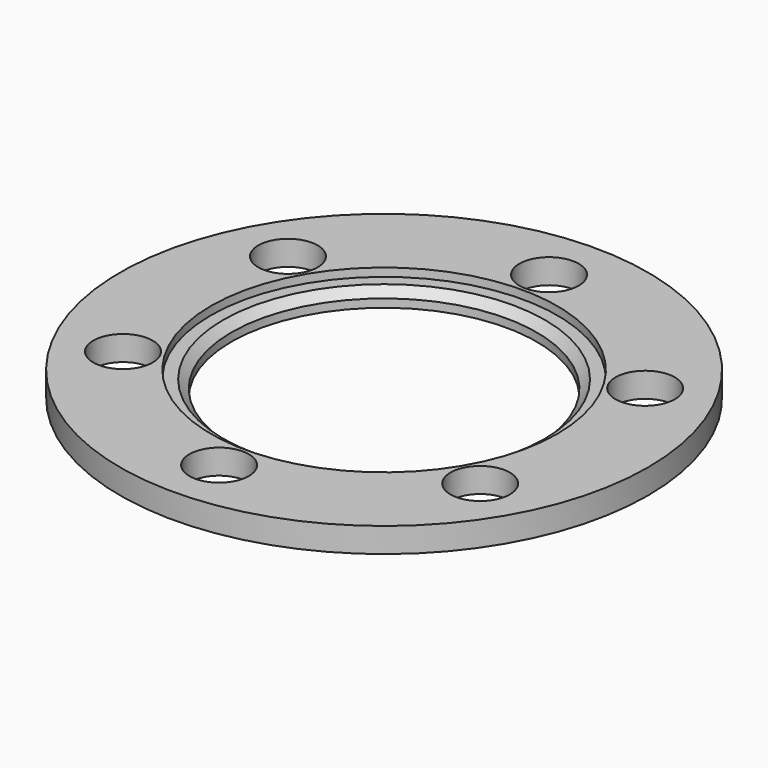
from build123d import *

# Parameters (mm, degrees)
F0_R     = 16
F0_R_2   = 1.8
F0_R_3   = 9.25
F1_DEPTH = 1.5
F2_R     = 10.5
F3_DEPTH = 0.5
F4_SIZE  = 0.5


with BuildPart() as f1:
    # F0 (on Top) → F1 (new body)
    with BuildSketch(Plane.XY):
        Circle(F0_R)
        with Locations((-10.825318, -6.25)):
            Circle(F0_R_2, mode=Mode.SUBTRACT)
        with Locations((0, -12.5)):
            Circle(F0_R_2, mode=Mode.SUBTRACT)
        with Locations((10.825318, -6.25)):
            Circle(F0_R_2, mode=Mode.SUBTRACT)
        with Locations((-10.825318, 6.25)):
            Circle(F0_R_2, mode=Mode.SUBTRACT)
        Circle(F0_R_3, mode=Mode.SUBTRACT)
        with Locations((10.825318, 6.25)):
            Circle(F0_R_2, mode=Mode.SUBTRACT)
        with Locations((0, 12.5)):
            Circle(F0_R_2, mode=Mode.SUBTRACT)
    extrude(amount=F1_DEPTH)

    # F2 (on face) → F3 (cut)
    with BuildSketch(Plane.XY.offset(1.5)):
        Circle(F2_R)
    extrude(amount=-F3_DEPTH, mode=Mode.SUBTRACT)

    # F4
    f4_edges = [f1.edges().sort_by_distance(p)[0] for p in [
        (-9.25, 0, 1),
    ]]
    chamfer(f4_edges, length=F4_SIZE)


solid = f1.part
